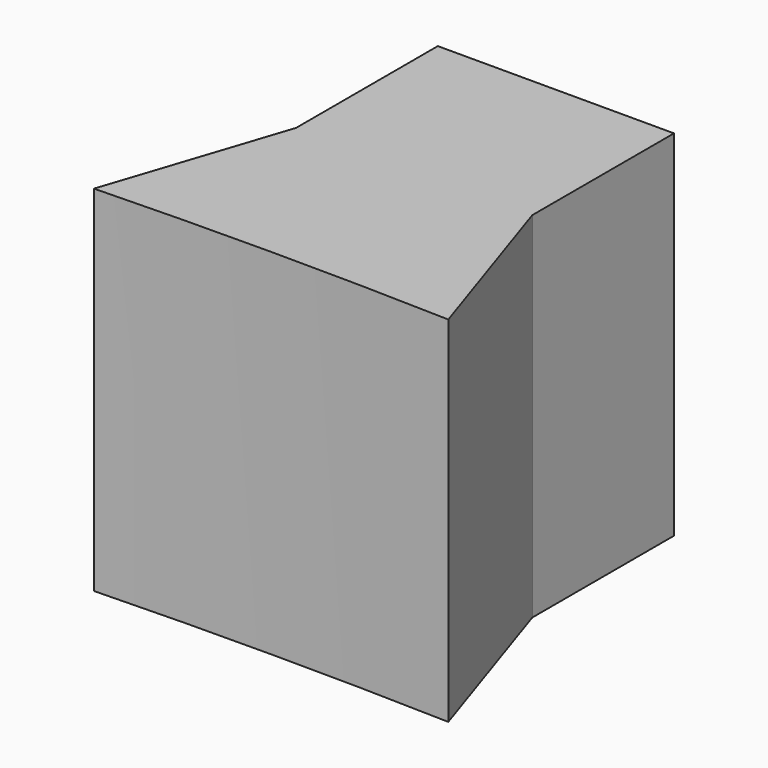
from build123d import *

# Parameters (mm, degrees)
F1_DEPTH = 3
F2_R     = 0.75
F3_DEPTH = 2


with BuildPart() as f1:
    # F0 (on Top) → F1 (new body)
    with BuildSketch(Plane.XY):
        with BuildLine():
            Line((-1, -0.010527), (-1.5, -1.524463))
            ThreePointArc((-1.5, -1.524463), (0, -1.5), (1.5, -1.524463))
            Line((1.5, -1.524463), (1, -0.010527))
            Line((1, -0.010527), (1, 1.489473))
            Line((1, 1.489473), (-1, 1.489473))
            Line((-1, 1.489473), (-1, -0.010527))
        make_face()
    extrude(amount=F1_DEPTH)

    # F2 (on face) → F3 (cut)
    with BuildSketch(Plane(origin=(0, 1.489473, 0), x_dir=(-1, 0, 0), z_dir=(0, 1, 0))):
        with Locations((0, 1.5)):
            Circle(F2_R)
    extrude(amount=-F3_DEPTH, mode=Mode.SUBTRACT)


solid = f1.part
